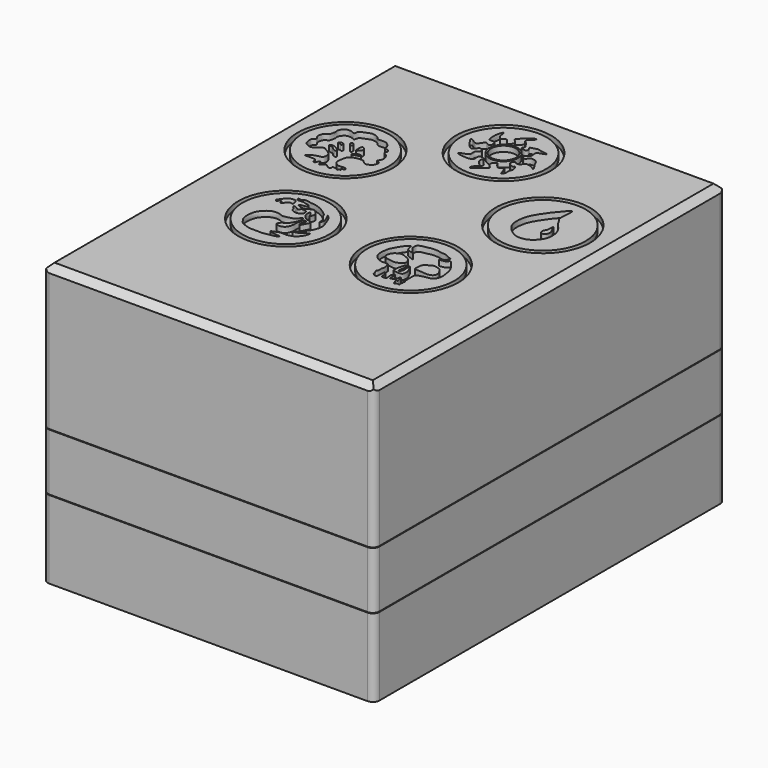
from build123d import *

# Parameters (mm, degrees)
F1_DEPTH       = 187.5
F2_W           = 68
F2_H           = 68
F3_DEPTH       = 3
F4_W           = 68
F4_H           = 68
F5_DEPTH       = 3
F7_DEPTH       = 26
F9_DEPTH       = 193.75
F9_DEPTH_BACK  = 0.25
F10_W          = 145
F10_H          = 60.5
F11_DEPTH      = 3
F12_W          = 145
F12_H          = 60.5
F13_DEPTH      = 3
F14_SIZE       = 3
F15_R          = 3
F16_R          = 3
F18_DEPTH      = 193.75
F18_DEPTH_BACK = 0.25
F19_W          = 145
F19_H          = 30.5
F20_DEPTH      = 3
F21_W          = 145
F21_H          = 30.5
F22_DEPTH      = 3
F23_R          = 3
F24_R          = 21.7451200662
F24_R_2        = 19.8248297203
F24_R_3        = 21.7418613224
F24_R_4        = 19.7824603198
F24_R_5        = 21.6826758796
F24_R_6        = 19.5476505625
F24_R_7        = 21.6420664694
F24_R_8        = 19.6814151093
F24_R_9        = 21.5989199578
F24_R_10       = 19.5319622764
F24_R_11       = 6.4576716424
F24_R_12       = 5.6785417885
F25_DEPTH      = 2.5


with BuildPart() as f1:
    # F0 (on Front) → F1 (new body)
    with BuildSketch(Plane.XZ):
        Polygon((-1.25, -34), (-69.25, -34), (-69.25, 34), (-72.25, 34), (-72.25, -1.5), (-75.5, -1.5), (-75.5, -27.5), (-72.25, -27.5), (-72.25, -37), (72.25, -37), (72.25, -27.5), (75.5, -27.5), (75.5, -1.5), (72.25, -1.5), (72.25, 34), (69.25, 34), (69.25, -34), (1.25, -34), (1.25, 34), (-1.25, 34), align=None)
    extrude(amount=F1_DEPTH)

    # F2 (on face) → F3 (join)
    with BuildSketch(Plane.XZ.offset(187.5)):
        Polygon((-69.25, -34), (-69.25, 34), (-72.25, 34), (-72.25, -1.5), (-75.5, -1.5), (-75.5, -27.5), (-72.25, -27.5), (-72.25, -37), (72.25, -37), (72.25, -27.5), (75.5, -27.5), (75.5, -1.5), (72.25, -1.5), (72.25, 34), (69.25, 34), (69.25, -34), (1.25, -34), (1.25, 34), (-1.25, 34), (-1.25, -34), align=None)
        with Locations((-35.25, 0)):
            Rectangle(F2_W, F2_H)
        with Locations((35.25, 0)):
            Rectangle(F2_W, F2_H)
    extrude(amount=F3_DEPTH)

    # F0 (on Front) + F4 (on face) → F5 (join)
    with BuildSketch(Plane.XZ):
        Polygon((-1.25, -34), (-69.25, -34), (-69.25, 34), (-72.25, 34), (-72.25, -1.5), (-75.5, -1.5), (-75.5, -27.5), (-72.25, -27.5), (-72.25, -37), (72.25, -37), (72.25, -27.5), (75.5, -27.5), (75.5, -1.5), (72.25, -1.5), (72.25, 34), (69.25, 34), (69.25, -34), (1.25, -34), (1.25, 34), (-1.25, 34), align=None)
    with BuildSketch(Plane.XZ):
        with Locations((35.25, 0)):
            Rectangle(F4_W, F4_H)
        with Locations((-35.25, 0)):
            Rectangle(F4_W, F4_H)
    extrude(amount=-F5_DEPTH)

    # F6 (on face) → F7 (join)
    with BuildSketch(Plane.XY.offset(-1.5)):
        Polygon((-72.25, 3), (72.25, 3), (75.5, 3), (75.5, 6.25), (-75.5, 6.25), (-75.5, 3), align=None)
        Polygon((75.5, -190.5), (72.25, -190.5), (-72.25, -190.5), (-75.5, -190.5), (-75.5, -193.75), (75.5, -193.75), align=None)
    extrude(amount=-F7_DEPTH)

    # F16
    f16_edges = [f1.edges().sort_by_distance(p)[0] for p in [
        (75.5, -193.75, -14.5),
        (75.5, 6.25, -14.5),
        (-75.5, -193.75, -14.5),
        (-75.5, 6.25, -14.5),
    ]]
    fillet(f16_edges, radius=F16_R)


with BuildPart() as f9:
    # F8 (on face) → F9 (new body, two sides)
    with BuildSketch(Plane.XZ.offset(190.5)) as f9_sk:
        Polygon((72.5, -1.25), (75.5, -1.25), (75.5, 59.25), (75.5, 64.25), (-75.5, 64.25), (-75.5, 59.25), (-75.5, -1.25), (-72.5, -1.25), (-72.5, 59.25), (72.5, 59.25), align=None)
    extrude(amount=-F9_DEPTH)
    extrude(f9_sk.sketch, amount=F9_DEPTH_BACK)

    # F10 (on face) → F11 (join)
    with BuildSketch(Plane(origin=(0, 3.25, 0), x_dir=(-1, 0, 0), z_dir=(0, 1, 0))):
        with Locations((0, 29)):
            Rectangle(F10_W, F10_H)
        Polygon((72.5, -1.25), (75.5, -1.25), (75.5, 64.25), (-75.5, 64.25), (-75.5, -1.25), (-72.5, -1.25), (-72.5, 59.25), (72.5, 59.25), align=None)
    extrude(amount=F11_DEPTH)

    # F12 (on face) → F13 (join)
    with BuildSketch(Plane.XZ.offset(190.75)):
        with Locations((0, 29)):
            Rectangle(F12_W, F12_H)
        Polygon((75.5, 64.25), (-75.5, 64.25), (-75.5, -1.25), (-72.5, -1.25), (-72.5, 59.25), (72.5, 59.25), (72.5, -1.25), (75.5, -1.25), align=None)
    extrude(amount=F13_DEPTH)

    # F14
    f14_edges = [f9.edges().sort_by_distance(p)[0] for p in [
        (75.5, -93.75, 64.25),
        (0, 6.25, 64.25),
        (-75.5, -93.75, 64.25),
        (0, -193.75, 64.25),
    ]]
    chamfer(f14_edges, length=F14_SIZE)

    # F15
    f15_edges = [f9.edges().sort_by_distance(p)[0] for p in [
        (75.5, -193.75, 30),
        (75.5, 6.25, 30),
        (-75.5, -193.75, 30),
        (-75.5, 6.25, 30),
    ]]
    fillet(f15_edges, radius=F15_R)

    # F24 (on face) → F25 (cut)
    with BuildSketch(Plane.XY.offset(64.25)):
        with Locations((27.5121341881, -112.8784805016)):
            Circle(F24_R)
        with Locations((27.5121341881, -112.8784805016)):
            Circle(F24_R_2, mode=Mode.SUBTRACT)
        with Locations((-45.7989489306, -58.4489568918)):
            Circle(F24_R_3)
        with Locations((-45.7989489306, -58.4489568918)):
            Circle(F24_R_4, mode=Mode.SUBTRACT)
        with Locations((-0.5132994483, -25.0521000498)):
            Circle(F24_R_5)
        with Locations((-0.5132994483, -25.0521000498)):
            Circle(F24_R_6, mode=Mode.SUBTRACT)
        with Locations((-29.4228601226, -112.8779995746)):
            Circle(F24_R_7)
        with Locations((-29.4228601226, -112.8779995746)):
            Circle(F24_R_8, mode=Mode.SUBTRACT)
        with Locations((45.1494311152, -59.7750923021)):
            Circle(F24_R_9)
        with Locations((45.1494311152, -59.7750923021)):
            Circle(F24_R_10, mode=Mode.SUBTRACT)
        with BuildLine():
            add(Edge.make_bspline(
                [(-8.6444457993, -23.4126616269), (-9.1578855501, -23.3391758338), (-10.6141962585, -21.3921849485), (-12.4079308688, -26.7202187874), (-15.1568559874, -23.7663864907), (-17.0677827861, -23.7035720775), (-14.3772546105, -27.0059710037), (-13.2451331871, -28.516524289), (-11.5994072332, -29.8321515883), (-9.9106360264, -28.3073716197), (-10.2646781731, -27.312876332), (-7.9413795116, -27.4012723132), (-7.5053247346, -29.2898620025), (-8.696875136, -29.9536892847), (-9.428495355, -30.7842813838), (-8.9405012848, -32.8132855919), (-10.1277790656, -33.9627141785), (-15.2438301152, -35.2974468742), (-9.2976052572, -36.1250383317), (-7.6458709309, -36.0923045282), (-5.2786991864, -35.6327375942), (-6.4900503536, -32.2185229669), (-3.7572918767, -32.1794994326), (-2.780832353, -33.3030584299), (-3.833395944, -34.0999843905), (-3.3542414614, -35.5890432088), (-2.065205647, -36.9822821544), (-0.5810728652, -38.3740607078), (-3.0116122974, -39.6525606103), (-3.1320990267, -42.132084955), (0.0329389151, -39.5038995443), (3.5279952478, -36.9067264219), (1.5155901688, -35.9138231646), (1.1048115609, -34.7392591722), (0.9640015851, -33.6677887941), (1.8966762991, -33.0188016932), (2.6009548212, -31.8796104183), (3.2727447329, -33.6533158268), (4.00965444, -34.2407582495), (5.1602397931, -35.4765347313), (6.3573798061, -34.4315453158), (7.184289292, -33.8001760404), (7.715978477, -35.6188362002), (8.3087568153, -36.6357681538), (8.6362857334, -38.7107392184), (9.8548118137, -36.4362349596), (9.4716984232, -35.3186934633), (9.8300159716, -33.8463197642), (10.3055129423, -32.8910657578), (9.8717689757, -31.9910264268), (9.418924279, -30.2484281841), (8.6714329939, -31.4838068917), (7.9925985726, -30.9413526408), (7.1148335619, -30.8351118979), (6.289156572, -30.1249267501), (6.0155738171, -29.0090834559), (6.9540544865, -27.3343356487), (7.8957421578, -28.726209455), (10.1094626481, -28.4135151016), (10.1757599332, -26.6104159297), (11.9170604248, -26.5363323652), (13.4871008963, -26.9101797703), (14.4641348472, -27.5567452682), (15.5959742753, -28.355824653), (15.0375151478, -26.8141848501), (13.6852077648, -25.4318756366), (12.8459165698, -22.8090361155), (11.1762061907, -22.2362879283), (9.2034078025, -21.9951952814), (8.6999550631, -23.7456099571), (7.8006342918, -23.9565825544), (6.2193142491, -22.8817566501), (7.3294967941, -21.6198935195), (8.7763219031, -20.7342279214), (8.4340195356, -19.0146500389), (8.3335246174, -17.3563524931), (10.6795885044, -17.0109638049), (13.0689515893, -15.8276255611), (8.8511063323, -15.6560036373), (7.3124093777, -14.8791385916), (5.636448767, -15.6776629796), (3.5494346474, -15.894029521), (5.1280882695, -17.1410045156), (4.6881185585, -18.7524896043), (3.0636271574, -18.5759383606), (1.5060861743, -17.6782444901), (2.9839355075, -17.0558447517), (1.9298398023, -15.4634984342), (0.9123418339, -13.7711842175), (-0.1950692924, -13.6385515458), (-0.4436027884, -11.5328806757), (2.148625526, -10.1635256051), (2.1334827949, -8.8878577978), (-0.1736300583, -10.3578697159), (-1.8505627859, -11.4365630552), (-2.7365832823, -12.9027732535), (-4.5001823147, -14.06419154), (-2.9440303288, -15.4251496524), (-2.0246803862, -16.4746035416), (-2.5321277004, -17.6722459583), (-3.486513128, -18.2449765809), (-3.8654144055, -18.9495391885), (-5.2560340322, -17.1602565852), (-6.0256620608, -15.8063516305), (-7.7594494846, -16.6018311702), (-8.3707803242, -17.6008320042), (-9.2177250662, -16.0895616761), (-9.7664640112, -15.4425854217), (-9.8461968845, -14.4212225403), (-10.1434141328, -11.6957895876), (-11.661067221, -15.6480937564), (-11.2472741413, -18.6215949424), (-11.2168818542, -20.3421134741), (-9.0013115989, -20.2286275881), (-7.9225773147, -20.5217683922), (-7.8217755748, -21.8507288683), (-7.6115448311, -22.7370996197), (-8.2538142387, -23.4685705627), (-8.6444457993, -23.4126616269)],
                knots=[0, 0, 0, 0, 0.0095215855, 0.0225354424, 0.0346297694, 0.0414140109, 0.0541984025, 0.0648907396, 0.0739645311, 0.0833673486, 0.0891559107, 0.0982858909, 0.106816625, 0.1144704771, 0.1215263013, 0.1308777324, 0.1400765231, 0.152420466, 0.1658270711, 0.1763371745, 0.1854109682, 0.1965738778, 0.2062217644, 0.2136664018, 0.2205501994, 0.2286680227, 0.2387358716, 0.2471177359, 0.2576460369, 0.2656834756, 0.2783631785, 0.291991801, 0.3002635844, 0.3081217248, 0.3149059595, 0.3223505967, 0.3288647237, 0.3370120948, 0.3444567302, 0.3526040917, 0.3608476615, 0.3667681626, 0.3752559155, 0.3838789731, 0.3916142051, 0.4005870871, 0.4086143065, 0.4170051402, 0.423937138, 0.4311812789, 0.439039418, 0.4453317185, 0.451120273, 0.4577281529, 0.4647228824, 0.4722057281, 0.4803530942, 0.4879471961, 0.4973563748, 0.5055999485, 0.5139907855, 0.5229563254, 0.5309526515, 0.5373687974, 0.5443007897, 0.5545944582, 0.5658027763, 0.5748765722, 0.5839856014, 0.592516336, 0.5986770131, 0.6071560934, 0.615152422, 0.6239903294, 0.6328359017, 0.6409037668, 0.6515656486, 0.659947507, 0.6720027256, 0.681691633, 0.6912009233, 0.6994727115, 0.7074690408, 0.7153052568, 0.7238867208, 0.7317988655, 0.7383129932, 0.7471814267, 0.7571061363, 0.7637143523, 0.772559922, 0.7842602042, 0.7895152516, 0.7998746501, 0.8102857184, 0.8194980812, 0.8283512957, 0.8372499481, 0.8453973154, 0.8527370687, 0.8601817017, 0.8649788868, 0.8746967755, 0.8831584278, 0.8920268643, 0.8983191633, 0.9064071279, 0.9129965741, 0.9204794202, 0.9291919327, 0.9407758646, 0.9538256144, 0.9617377663, 0.9713856533, 0.9784263535, 0.9859716139, 0.9927558554, 1, 1, 1, 1], degree=3))
        make_face()
        with Locations((-0.5132994483, -25.0521000498)):
            Circle(F24_R_11, mode=Mode.SUBTRACT)
        with BuildLine():
            add(Edge.make_bspline(
                [(-54.4351860881, -62.7155974507), (-54.8999287337, -63.1117369725), (-55.3801600674, -63.8843122024), (-57.5994651165, -64.4851946443), (-59.138391503, -63.586285587), (-60.3618346386, -62.7280591491), (-60.6923481954, -60.7599753495), (-60.7158931266, -58.8333336931), (-58.9940446619, -58.1403265053), (-59.950967335, -57.0198102128), (-60.407338484, -56.3662609095), (-60.2105073034, -54.0030210641), (-59.0582998624, -52.6326061157), (-57.9608465038, -52.9990816019), (-57.4256707249, -50.4170783807), (-57.2614972251, -49.5726323105), (-57.7736787747, -48.2472921697), (-55.9359289773, -45.5474491191), (-53.783329902, -45.6490946204), (-52.4544446634, -45.9341666983), (-51.2240054231, -46.8072673471), (-51.5221301151, -44.1929345549), (-48.237055713, -43.4582732174), (-46.3398373424, -42.191783223), (-42.8939860839, -43.244074488), (-42.2041403501, -45.1769124486), (-38.7759117564, -44.2429404339), (-36.9019841966, -45.6112189824), (-35.7200451656, -47.0935945889), (-35.862928015, -49.0135343361), (-34.7621736017, -48.5670768756), (-32.7296765125, -49.744077946), (-34.4422304806, -51.1879413905), (-32.386239179, -52.0656762592), (-31.2372994786, -53.4581139153), (-30.6770731522, -56.4077728525), (-32.6322129342, -57.9382834251), (-30.2401406623, -57.9709653895), (-30.3492360867, -60.4940358036), (-31.7149618934, -61.8776491713), (-34.2075805674, -62.7757312679), (-35.5081459026, -60.6073576424), (-37.4471476899, -60.5584514911), (-40.3708388181, -61.1478602151), (-42.0728124077, -62.2737770766), (-42.3643142189, -64.5254169398), (-42.8628062524, -66.6430977577), (-42.276154883, -68.3943552318), (-40.4084643894, -69.6848152382), (-37.60549499, -68.8943706197), (-36.673175924, -69.674967971), (-36.3021837695, -70.3458608376), (-37.1687964775, -70.4741129964), (-38.8604130986, -70.3230920016), (-37.0944267998, -71.2700721619), (-38.4054994746, -71.5404811218), (-38.681984573, -72.4054537999), (-39.6585311456, -71.5301752473), (-41.7135292658, -71.0895128114), (-40.9108892541, -72.428068383), (-41.7972237138, -72.7168656701), (-42.6713271708, -72.8670160024), (-44.3435607531, -70.3584006494), (-45.6304965405, -73.0987212611), (-46.6486148168, -72.7105811647), (-46.8655703364, -70.8112956645), (-47.8945979656, -70.8086315455), (-48.1276104664, -72.720153952), (-49.5630909583, -72.7294612604), (-48.8072978366, -69.7056670518), (-57.0633125804, -71.4277639896), (-51.6568621139, -67.9949502171), (-49.6192716082, -68.0750092961), (-48.344825963, -67.2552135707), (-48.295223961, -64.6574236991), (-50.08074089, -63.0956231068), (-51.9526869269, -62.4048371689), (-52.4704154186, -61.4165874154), (-53.8905038485, -62.2513186421), (-54.4351860881, -62.7155974507)],
                knots=[0, 0, 0, 0, 0.0125446907, 0.02699059, 0.0403220352, 0.0523100185, 0.0664271129, 0.0800634736, 0.0917559246, 0.1021521573, 0.1114508029, 0.1267418442, 0.1395724744, 0.1485009172, 0.1638439559, 0.1737005945, 0.1849275169, 0.2021844887, 0.216504759, 0.2287552099, 0.2383317607, 0.2514199721, 0.2689434746, 0.2845819049, 0.3025846953, 0.3156624711, 0.3332507446, 0.3483892237, 0.3623800662, 0.3745405794, 0.3838968323, 0.397306473, 0.4089102226, 0.4217408528, 0.4358579413, 0.4529066037, 0.4653916847, 0.4771565499, 0.4914368747, 0.5057730333, 0.5208573352, 0.5354482888, 0.5490846495, 0.5666124963, 0.5805172367, 0.5953645748, 0.610338788, 0.6235401631, 0.6381084846, 0.6548569962, 0.6654747638, 0.6726899574, 0.6816184002, 0.6919516861, 0.7017343022, 0.7108534955, 0.7191212987, 0.7299290839, 0.742414163, 0.7517704159, 0.7601197016, 0.7694759546, 0.7841267062, 0.7986874806, 0.8070766209, 0.8204080739, 0.8280240245, 0.8411743343, 0.8499684765, 0.8636324036, 0.8858705756, 0.904475162, 0.9202403274, 0.9313668365, 0.9465987376, 0.9620695409, 0.976178325, 0.9852975183, 1, 1, 1, 1], degree=3))
        make_face()
        with BuildLine():
            add(Edge.make_bspline(
                [(-52.742715925, -59.0485781431), (-52.640722486, -59.2873680568), (-50.7519598693, -59.1757445332), (-50.1499278552, -60.3561277708), (-48.8207205735, -60.9981965719), (-47.6660637404, -60.9847047329), (-48.903927165, -59.3496488521), (-50.7307889624, -58.5924864661), (-51.8831583949, -58.1211094896), (-52.8201572319, -58.8672703729), (-52.742715925, -59.0485781431)],
                knots=[0, 0, 0, 0, 0.1416225286, 0.2659597087, 0.3964427892, 0.4841440168, 0.6152879407, 0.7728574166, 0.8924692234, 1, 1, 1, 1], degree=3))
        make_face(mode=Mode.SUBTRACT)
        with BuildLine():
            add(Edge.make_bspline(
                [(-42.1177595854, -59.6127323806), (-42.2172323599, -59.4198809548), (-40.8342827576, -57.9977142633), (-39.7154399248, -57.9620498731), (-38.5185724458, -58.1794198341), (-39.3530481505, -59.1742371193), (-40.4534295907, -59.1930742778), (-42.0259384172, -59.7907493637), (-42.1177595854, -59.6127323806)],
                knots=[0, 0, 0, 0, 0.1999389833, 0.3730251942, 0.5067325524, 0.640895479, 0.8154406459, 1, 1, 1, 1], degree=3))
        make_face(mode=Mode.SUBTRACT)
        with BuildLine():
            add(Edge.make_bspline(
                [(-49.5458245277, -56.1337657273), (-49.318450125, -56.0531062068), (-49.0395883539, -54.8994796648), (-50.6531807909, -54.6464818184), (-51.392058655, -55.2603618939), (-51.4627682877, -56.0944317655), (-50.4257464105, -55.4550174592), (-49.7794917166, -56.2166575708), (-49.5458245277, -56.1337657273)],
                knots=[0, 0, 0, 0, 0.1719599016, 0.3705519179, 0.5408336915, 0.6612412791, 0.8232809572, 1, 1, 1, 1], degree=3))
        make_face(mode=Mode.SUBTRACT)
        with BuildLine():
            add(Edge.make_bspline(
                [(-46.4429631829, -54.5353218913), (-46.1473412572, -54.4311469588), (-46.0152096068, -52.9810066089), (-47.6730395555, -52.3405293123), (-47.780459246, -53.5695997928), (-46.7613324694, -54.6475128219), (-46.4429631829, -54.5353218913)],
                knots=[0, 0, 0, 0, 0.2592109643, 0.5126388287, 0.7208434065, 1, 1, 1, 1], degree=3))
        make_face(mode=Mode.SUBTRACT)
        with BuildLine():
            add(Edge.make_bspline(
                [(-42.6819138229, -56.2277920544), (-43.1156849793, -55.8287324323), (-43.112761479, -51.8980004906), (-41.2028547543, -53.5008979854), (-40.8014697476, -54.581673922), (-41.5634433755, -55.4699542588), (-42.4172162379, -56.471307827), (-42.6819138229, -56.2277920544)],
                knots=[0, 0, 0, 0, 0.2908595894, 0.4768538261, 0.6450209759, 0.8225104879, 1, 1, 1, 1], degree=3))
        make_face(mode=Mode.SUBTRACT)
        with BuildLine():
            add(Edge.make_bspline(
                [(18.4350963682, -101.6424372792), (17.9246588426, -101.5351666411), (16.0124058903, -103.8816114378), (15.1439710568, -105.7197642153), (13.8672245253, -107.6316333255), (13.4164187261, -109.9208979318), (13.1192680089, -112.546863763), (13.6783642506, -115.0456266215), (15.8122195346, -116.8443967785), (18.2682395236, -117.627988606), (20.240476189, -117.2622058485), (21.3609324298, -117.8294059485), (21.1127140384, -118.8807149182), (21.8161451664, -120.5159710032), (20.8794530473, -121.5746035713), (21.5182307808, -123.6117859116), (20.4469229104, -124.1746080123), (21.1121507152, -124.7695407165), (21.2048719407, -125.9539472014), (21.6200430604, -126.9181263954), (23.8143323539, -127.8228984454), (23.5217892283, -125.0998703416), (23.7292181694, -124.177078013), (23.7222956123, -122.8159990311), (24.6599939246, -123.36205649), (25.0643275782, -124.9096618215), (24.6689081424, -126.7077943302), (26.8072337439, -126.5700013597), (27.424940286, -125.983421404), (26.6006139101, -123.203759386), (27.5637541958, -122.8177559002), (27.8847124389, -122.1518986295), (28.2343617906, -123.5062698226), (28.0590027608, -125.0310119732), (28.2213376695, -125.9611947357), (29.1642710414, -125.2529282037), (30.3003568921, -124.8761114152), (30.3778560403, -124.2142600897), (30.480972175, -123.2041480849), (30.4794089705, -122.7458163522), (31.0859353861, -122.6790196654), (31.3520245609, -123.8057143188), (31.4309902335, -124.6022833701), (31.873475773, -125.5949783104), (30.6600660836, -125.5340917658), (31.0951062542, -126.5704261674), (31.6680975819, -126.890408705), (31.2331441269, -128.2074527943), (32.501382918, -127.121480578), (33.1159372437, -127.2856163796), (34.2057329504, -127.603963695), (33.5230218652, -125.8235794035), (34.5234779808, -125.4134281051), (32.9651977373, -125.0462642214), (34.4701606602, -124.7447556968), (33.3713642567, -123.8426048281), (33.9110840731, -122.6774215881), (33.1616729325, -118.0153548552), (34.9449996566, -117.7661258492), (36.387787012, -117.196751356), (38.2657176057, -116.8303148254), (40.0720248494, -116.7435057933), (41.4068462612, -115.0898764601), (42.0479548736, -113.2963851262), (41.5672938514, -110.1502106291), (41.0913952199, -107.3726454955), (39.7070031041, -105.1408782207), (38.3855111027, -103.6281527689), (36.736517858, -101.3629124068), (35.9890329976, -103.1925385429), (34.5352650759, -103.2415805245), (31.8812703313, -103.838220453), (34.6779278228, -102.5649445788), (35.061785756, -101.936924221), (36.2658109746, -100.4758366673), (34.1137126128, -100.0384004502), (32.4610242882, -98.7657323386), (30.2979082733, -98.9539596972), (28.5616148109, -98.2955765929), (25.2114880482, -98.3342566096), (23.6103339424, -98.8767493369), (20.9428548873, -99.1823567012), (19.6565276939, -100.2136949338), (19.7424388978, -101.560485146), (19.8774060178, -102.7545283595), (21.0789301271, -103.6936584732), (21.6192215704, -104.6769952657), (23.1903212932, -105.8617130295), (20.9264906066, -104.9143235726), (19.7400044653, -104.6925155533), (19.2096773177, -103.9770378314), (19.0022056679, -103.055465167), (18.7882081562, -101.716645238), (18.4350963682, -101.6424372792)],
                knots=[0, 0, 0, 0, 0.0161071175, 0.0305396715, 0.0441800008, 0.0583804702, 0.073507272, 0.0880544869, 0.1032480273, 0.1181390041, 0.1312225301, 0.1403835043, 0.1494344551, 0.1612967737, 0.1718262895, 0.1845944902, 0.1929683077, 0.2003629758, 0.2104042406, 0.2201541392, 0.2317487863, 0.2448985716, 0.2552078387, 0.2643252994, 0.2717199578, 0.2837383962, 0.2948448249, 0.3066267038, 0.3146056892, 0.3294613357, 0.3381303554, 0.3440110894, 0.3532361743, 0.3656811015, 0.3728612097, 0.3818212033, 0.3919274635, 0.399107561, 0.4085962341, 0.4143935644, 0.4201036887, 0.4294734798, 0.4385909404, 0.4466976367, 0.4545766538, 0.4627753097, 0.4704421497, 0.4785174848, 0.4880639453, 0.4961393004, 0.5036930634, 0.5147506714, 0.5216448938, 0.5297515901, 0.5374184301, 0.5459570574, 0.5566396914, 0.5757943775, 0.5864359275, 0.5981253122, 0.6110193364, 0.6232791774, 0.636211776, 0.6489559698, 0.6653908341, 0.681237269, 0.695912294, 0.7099594934, 0.7233301221, 0.7335158803, 0.7455343168, 0.7569989166, 0.76967843, 0.779281676, 0.7897392953, 0.8015110179, 0.815280403, 0.8283935026, 0.8412875207, 0.8579352409, 0.8705158151, 0.8855309977, 0.8968149962, 0.9071242314, 0.9171654962, 0.9281736233, 0.9389371158, 0.9485403381, 0.9602297211, 0.9712378462, 0.9792168381, 0.9888573767, 1, 1, 1, 1], degree=3))
        make_face()
        with BuildLine():
            add(Edge.make_bspline(
                [(24.9229017645, -111.7032393813), (24.7032415587, -111.0850570422), (23.9178019231, -109.8217505239), (22.0364250985, -109.0804836209), (20.2312372923, -108.3757860491), (18.7740151361, -108.5556895415), (16.7479668478, -109.8980577822), (16.1655914922, -111.4193830709), (15.8468936841, -112.8691230156), (16.3648486168, -113.4069668644), (17.4869687456, -114.4470458849), (19.0043215081, -114.427045086), (21.1723410731, -115.0794225572), (22.6490730251, -114.6510861748), (24.1820734901, -114.0396931394), (25.2257076497, -113.1884979496), (25.106013844, -112.2185655561), (24.9229017645, -111.7032393813)],
                knots=[0, 0, 0, 0, 0.0754409757, 0.1505981315, 0.2229988788, 0.2860952557, 0.3662366418, 0.434838063, 0.4958343406, 0.539390175, 0.6022091065, 0.6676511786, 0.7460202311, 0.8114623032, 0.8792451722, 0.9371112583, 1, 1, 1, 1], degree=3))
        make_face(mode=Mode.SUBTRACT)
        with BuildLine():
            add(Edge.make_bspline(
                [(26.4273192734, -114.2419427633), (26.1321361925, -114.3297388447), (25.7752510829, -116.1932139862), (25.4435396038, -117.0152597896), (25.3141490827, -118.4958547648), (25.0929861537, -120.4427502121), (26.4225468867, -120.2581672318), (27.7647781984, -120.7161219651), (29.1195927874, -120.2644713983), (29.4960765144, -120.4764313903), (29.9036539157, -119.422963867), (29.9966013939, -117.9766300006), (29.5456827284, -116.6490881619), (28.8221717303, -115.0842466994), (27.6479564297, -113.1407246885), (28.363066792, -117.3605149253), (27.8058050548, -118.5864513369), (27.4418294719, -119.1744824952), (26.7582028362, -119.2801065915), (26.9934595923, -117.3408567436), (27.3611414599, -115.4881347561), (26.664187961, -114.171491088), (26.4273192734, -114.2419427633)],
                knots=[0, 0, 0, 0, 0.0603093043, 0.1055650703, 0.1593834427, 0.2146914187, 0.25749174, 0.311310178, 0.3617118771, 0.3849258965, 0.4269870362, 0.4806494834, 0.5317908403, 0.5932439105, 0.6384995731, 0.7155090861, 0.7699379703, 0.8038523787, 0.8306574644, 0.8859175724, 0.9516049981, 1, 1, 1, 1], degree=3))
        make_face(mode=Mode.SUBTRACT)
        with BuildLine():
            add(Edge.make_bspline(
                [(32.1629159153, -109.5406413078), (32.6685584625, -109.1979106696), (33.5564319448, -108.6660819198), (34.5015334678, -108.2957460241), (36.5204304932, -108.5936056909), (37.98637888, -109.331919365), (38.4196275525, -110.3140138752), (39.2092964895, -111.3048156199), (39.5193804431, -112.5372620224), (39.1239491122, -114.239783612), (37.5202360226, -114.9232754191), (35.6839069769, -114.9534514993), (33.9227015121, -114.6398404831), (31.3755585587, -114.7003222519), (30.2978386404, -114.4020483173), (30.6185990204, -112.1919011001), (30.6083239439, -110.677285267), (31.6344882736, -109.8988159588), (32.1629159153, -109.5406413078)],
                knots=[0, 0, 0, 0, 0.0644105533, 0.1141707981, 0.1851007068, 0.2485974037, 0.2992464619, 0.354854625, 0.4111058285, 0.4741584876, 0.5376550496, 0.604829313, 0.6738726883, 0.753921902, 0.7999792301, 0.8705517299, 0.932687, 1, 1, 1, 1], degree=3))
        make_face(mode=Mode.SUBTRACT)
        with BuildLine():
            add(Edge.make_bspline(
                [(-22.4662851542, -124.9609217048), (-22.4113469046, -125.1905064321), (-24.4449465385, -125.9805337177), (-25.8590652302, -126.1173219387), (-29.517634661, -126.9711770568), (-32.1354600459, -126.520373984), (-35.0253697303, -126.8652664874), (-36.6996249104, -126.0156614848), (-39.3175890686, -125.419933172), (-40.6292164339, -123.2900965454), (-42.0265987882, -121.3416480857), (-41.6639365077, -116.4715176459), (-40.6260494787, -114.5404407446), (-38.8167213545, -112.3802552182), (-36.3927569373, -111.126838447), (-33.5054355718, -111.0745534941), (-31.8211792991, -112.3232412627), (-29.3590280078, -111.502067978), (-26.6426648022, -111.1607610777), (-24.7259008031, -107.8375689864), (-24.3357477504, -110.9818408223), (-25.2386740775, -112.8172727456), (-26.5204774747, -115.1960805175), (-28.3119997866, -115.8756760007), (-29.5478944413, -117.1438890228), (-29.577923772, -118.2042617296), (-28.3659637328, -118.8658563877), (-26.3385372277, -118.474665801), (-25.1471899309, -117.6513699788), (-24.3173757832, -115.4176151379), (-24.3148181072, -113.6919158599), (-24.4574877465, -112.8690774035), (-23.7430916063, -111.3637606501), (-23.8362791637, -109.9448638743), (-22.0236156908, -109.7183483784), (-22.7092548312, -111.5361586706), (-23.0907124978, -112.7188486234), (-22.5075687554, -114.2721264471), (-21.263743582, -111.2546000093), (-20.4039079182, -110.0922017544), (-21.3166721856, -108.8943424773), (-23.1631412102, -109.1052530337), (-25.4374073438, -107.0568755529), (-25.9071366707, -105.3161969034), (-25.9229105615, -102.5830391668), (-24.0919611316, -105.6803640986), (-23.8785718166, -106.7322622771), (-23.4961007279, -104.9814058581), (-23.1269649666, -104.0041111625), (-23.9668262942, -102.4806921815), (-25.404931162, -101.4600357673), (-26.3338100421, -101.3698092021), (-27.1875182007, -101.8351386428), (-28.209503473, -102.4358405015), (-29.4337226389, -102.9026298087), (-31.3792035592, -102.6898759753), (-33.1471596637, -101.604469223), (-30.9888564778, -101.2272864177), (-29.1870168083, -101.084337454), (-29.5199072618, -100.4180023616), (-29.1014163063, -99.6134361386), (-31.3816288866, -99.4998350606), (-32.2510926399, -98.8470805305), (-34.0284825341, -99.1246062273), (-35.2856403676, -99.2187787252), (-36.0145947385, -97.5944010659), (-33.5544085657, -98.4563716906), (-33.649639458, -97.003923964), (-30.17194969, -97.948221469), (-28.5860985138, -97.8712684097), (-26.4627770338, -98.4198037307), (-25.1142833919, -98.9684398001), (-23.3576814624, -99.9189834684), (-22.1257873606, -100.8999780257), (-20.5787268901, -101.8892540254), (-20.0357687037, -103.902199168), (-18.0943362037, -105.0480478774), (-18.6712033282, -108.565307521), (-17.3517688862, -105.988540021), (-18.0347160627, -104.7195357614), (-18.2171903714, -103.5809431239), (-19.9156843003, -100.8706624909), (-18.3433257187, -102.4530908218), (-17.4006844802, -103.5795281281), (-16.6201160898, -105.5165352798), (-15.4564606128, -108.5676690756), (-15.3754417055, -110.7657473997), (-16.1162573566, -112.8753358559), (-17.1842462127, -115.083144806), (-18.4478097711, -116.1229858019), (-19.5340391839, -117.6939823781), (-20.3268158864, -118.3984346312), (-21.7861103778, -119.3168553987), (-20.3179097378, -118.9774704092), (-18.5905760471, -118.7619615435), (-17.6792552606, -117.5122783903), (-16.1327544999, -116.8783788899), (-15.2204519881, -115.7599585073), (-15.7679345283, -118.8731964631), (-16.7626245206, -119.7820751606), (-17.6149218171, -121.4215451454), (-19.8610387896, -122.1676097747), (-21.6709400578, -122.6676712776), (-23.7839860605, -122.2640950197), (-25.3905430061, -122.7771043909), (-26.6398084997, -123.3042440352), (-28.0443024542, -123.8698164666), (-26.1663588612, -124.3738261898), (-25.1229757984, -124.6213640209), (-22.5279056565, -124.7034121131), (-22.4662851542, -124.9609217048)],
                knots=[0, 0, 0, 0, 0.0097050975, 0.0192379067, 0.0324829959, 0.0443356856, 0.0559859249, 0.0656427161, 0.076868595, 0.0876507908, 0.098574358, 0.1137244254, 0.1243594551, 0.1358722173, 0.1475362858, 0.1591865251, 0.16892143, 0.1798100489, 0.1918558202, 0.2029235501, 0.2124563721, 0.2232340504, 0.234485084, 0.2442199834, 0.2533170521, 0.259807242, 0.2674612742, 0.2774253971, 0.2858041917, 0.2965556628, 0.3057412513, 0.3120507971, 0.3210322078, 0.3290108294, 0.3362007769, 0.3446165475, 0.3532109213, 0.3595202033, 0.3707460876, 0.3794416021, 0.3867466318, 0.3960364116, 0.4078527637, 0.4180312789, 0.4264470714, 0.4378983366, 0.4435015735, 0.4514802173, 0.4590259528, 0.4679458631, 0.4772763528, 0.4837864749, 0.4905758387, 0.4982337575, 0.5062083272, 0.5164056843, 0.5243843145, 0.5332418414, 0.542286369, 0.5471238709, 0.5524230887, 0.5620157107, 0.5697099523, 0.5788955307, 0.5867415193, 0.5934049021, 0.6025834065, 0.608629413, 0.6208942193, 0.6305933137, 0.6406448452, 0.6493403696, 0.6591573388, 0.6681307769, 0.6774205626, 0.6872375171, 0.6977474448, 0.7079155569, 0.7167173843, 0.725178743, 0.7335200521, 0.7437501049, 0.7512572866, 0.760385819, 0.770517286, 0.7832767368, 0.7936569222, 0.8041573029, 0.8150830468, 0.8241826269, 0.8336644664, 0.8415996195, 0.8489046492, 0.8554147784, 0.8650039775, 0.8735543218, 0.8829515173, 0.8887609935, 0.8994322756, 0.9082580931, 0.9173866223, 0.92802166, 0.9377919909, 0.9479444487, 0.956985327, 0.9656808564, 0.972325677, 0.9801258998, 0.9891144515, 1, 1, 1, 1], degree=3))
        make_face()
        with BuildLine():
            add(Edge.make_bspline(
                [(46.5489141643, -44.8506250978), (46.1526806174, -44.4542193393), (43.9675778653, -47.164725183), (41.6703937013, -49.7926258608), (39.5888526427, -52.8446323999), (37.7239328822, -55.5867100898), (36.3608752813, -58.7566226287), (35.8158326062, -61.8440017338), (35.8718203934, -65.6935188722), (37.7134137527, -68.6465561218), (39.6457580712, -70.3787864401), (42.7780559825, -72.5655072855), (47.1600334417, -72.3451215931), (50.2603523868, -70.335563391), (52.7070969591, -67.0075794071), (52.9684083279, -63.4728442285), (52.5265843726, -60.8158340981), (51.095505032, -58.0384212032), (48.8556538879, -56.1747726238), (47.4904027012, -53.094923768), (45.9465135011, -52.1346277846), (47.1504410805, -45.4524134504), (46.5489141643, -44.8506250978)],
                knots=[0, 0, 0, 0, 0.0463454891, 0.1013749884, 0.1524974627, 0.2019084851, 0.2515529542, 0.2995741565, 0.3520892311, 0.4013921679, 0.444942444, 0.49669021, 0.5516984079, 0.60320572, 0.6572218254, 0.7072103869, 0.7514317612, 0.7981641336, 0.8449888613, 0.8924452814, 0.9296423552, 1, 1, 1, 1], degree=3))
        make_face()
        with BuildLine():
            add(Edge.make_bspline(
                [(48.8995686173, -58.4844201803), (48.7027978481, -58.480632861), (48.9673081388, -61.1763572969), (47.9901256068, -62.3982656155), (47.6601595771, -63.8598595446), (48.5917305096, -65.1720229971), (50.3567480054, -64.7623712163), (50.7358445736, -63.3282959575), (50.840114982, -61.521748736), (50.0603389837, -61.1144239832), (49.1081392309, -58.4884346156), (48.8995686173, -58.4844201803)],
                knots=[0, 0, 0, 0, 0.1336623692, 0.2509557834, 0.3513258583, 0.4519456368, 0.5563336904, 0.6604976716, 0.7705429202, 0.8583222373, 1, 1, 1, 1], degree=3))
        make_face(mode=Mode.SUBTRACT)
        with Locations((-0.5132994483, -25.0521000498)):
            Circle(F24_R_12)
        with BuildLine():
            add(Edge.make_bspline(
                [(-38.5447591543, -104.5572459698), (-38.7917045545, -104.4593401859), (-38.8322004849, -103.3731053514), (-39.1952296711, -103.0248647547), (-40.0532324322, -103.5149789867), (-40.5220421309, -104.7897899803), (-41.5786865782, -103.4607121491), (-40.1472148748, -102.4301182417), (-39.5379507207, -100.8748157039), (-37.8794102686, -99.7374099939), (-36.0962531246, -99.4249658501), (-35.1495093671, -99.9607994362), (-34.5434813712, -101.3533855116), (-34.4222299246, -102.5850603659), (-35.2895544466, -102.3657494178), (-36.6580529971, -102.1941323751), (-37.0814003948, -103.2758185765), (-38.2412695415, -104.6775696868), (-38.5447591543, -104.5572459698)],
                knots=[0, 0, 0, 0, 0.0626083713, 0.0988677649, 0.1529368647, 0.2103315952, 0.265999184, 0.3359973268, 0.4107407503, 0.4910423847, 0.5662415472, 0.6227258986, 0.6943468443, 0.750014433, 0.7965892793, 0.8600599993, 0.9230559049, 1, 1, 1, 1], degree=3))
        make_face()
        with BuildLine():
            add(Edge.make_bspline(
                [(-33.2792922854, -103.6169826984), (-33.3797518941, -103.9480114558), (-31.559007246, -105.5934555853), (-32.0194958433, -106.1088949225), (-30.0978821725, -107.3195083728), (-28.2014680907, -106.9195173481), (-26.8204504703, -106.0804150755), (-26.9166370498, -103.9294766579), (-28.1972124001, -103.7516609759), (-29.5242240407, -103.3174944923), (-30.1635333989, -104.531036778), (-30.9467385126, -104.8092362715), (-31.3343001386, -103.8606596738), (-33.1943757255, -103.3371705062), (-33.2792922854, -103.6169826984)],
                knots=[0, 0, 0, 0, 0.1121582263, 0.1620129262, 0.2600633221, 0.3614666688, 0.4487256251, 0.5424674944, 0.6192125949, 0.6988897818, 0.777687935, 0.8332114717, 0.9051948253, 1, 1, 1, 1], degree=3))
        make_face()
    extrude(amount=-F25_DEPTH, mode=Mode.SUBTRACT)


with BuildPart() as f18:
    # F17 (on face) → F18 (new body, two sides)
    with BuildSketch(Plane.XZ.offset(190.5)) as f18_sk:
        Polygon((-72.5, -27.75), (-75.5, -27.75), (-75.5, -58.25), (-75.5, -63.25), (75.5, -63.25), (75.5, -58.25), (75.5, -27.75), (72.5, -27.75), (72.5, -58.25), (-72.5, -58.25), align=None)
    extrude(amount=-F18_DEPTH)
    extrude(f18_sk.sketch, amount=F18_DEPTH_BACK)

    # F19 (on face) → F20 (join)
    with BuildSketch(Plane.XZ.offset(190.75)):
        with Locations((0, -43)):
            Rectangle(F19_W, F19_H)
        Polygon((75.5, -63.25), (75.5, -27.75), (72.5, -27.75), (72.5, -58.25), (-72.5, -58.25), (-72.5, -27.75), (-75.5, -27.75), (-75.5, -63.25), align=None)
    extrude(amount=F20_DEPTH)

    # F21 (on face) → F22 (join)
    with BuildSketch(Plane(origin=(0, 3.25, 0), x_dir=(-1, 0, 0), z_dir=(0, 1, 0))):
        with Locations((0, -43)):
            Rectangle(F21_W, F21_H)
        Polygon((-72.5, -58.25), (-72.5, -27.75), (-75.5, -27.75), (-75.5, -63.25), (75.5, -63.25), (75.5, -27.75), (72.5, -27.75), (72.5, -58.25), align=None)
    extrude(amount=F22_DEPTH)

    # F23
    f23_edges = [f18.edges().sort_by_distance(p)[0] for p in [
        (75.5, -193.75, -45.5),
        (75.5, 6.25, -45.5),
        (-75.5, -193.75, -45.5),
        (-75.5, 6.25, -45.5),
    ]]
    fillet(f23_edges, radius=F23_R)


solid = Compound([f1.part, f9.part, f18.part])
